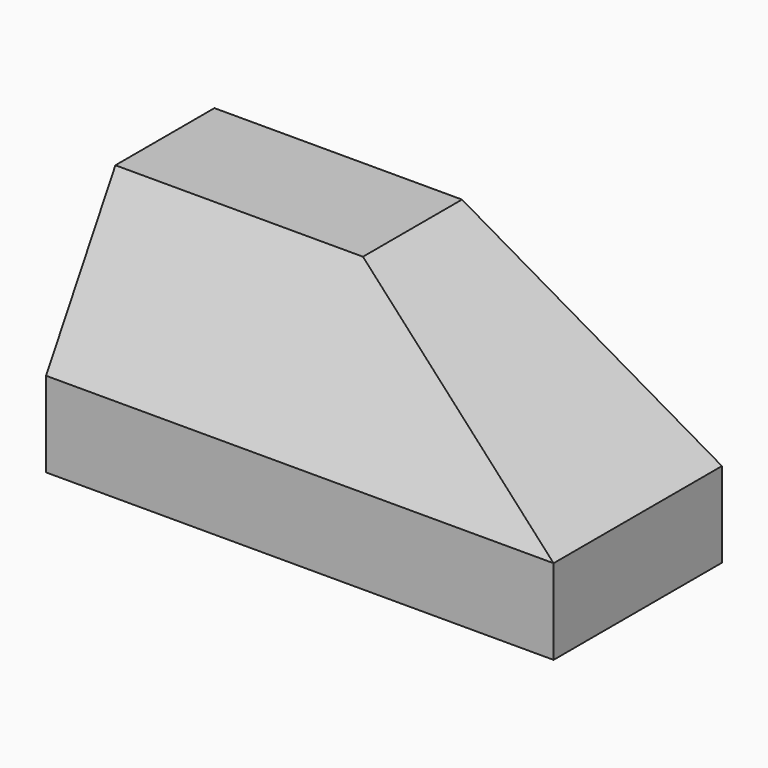
from build123d import *

# Parameters (mm, degrees)
F1_DEPTH = 53.975
F3_DEPTH = 65.0875


with BuildPart() as f1:
    # F0 (on Front) → F1 (new body)
    with BuildSketch(Plane.XZ):
        Polygon((-65.0875, 30.1625), (-65.0875, -30.1625), (65.0875, -30.1625), (65.0875, -8.332329), (-1.5875, 30.1625), align=None)
    extrude(amount=F1_DEPTH)

    # F2 (on Right) → F3 (cut, symmetric)
    with BuildSketch(Plane.YZ):
        Polygon((-31.75, 30.1625), (-53.975, 30.1625), (-53.975, -8.332329), align=None)
    extrude(amount=F3_DEPTH, both=True, mode=Mode.SUBTRACT)


solid = f1.part
